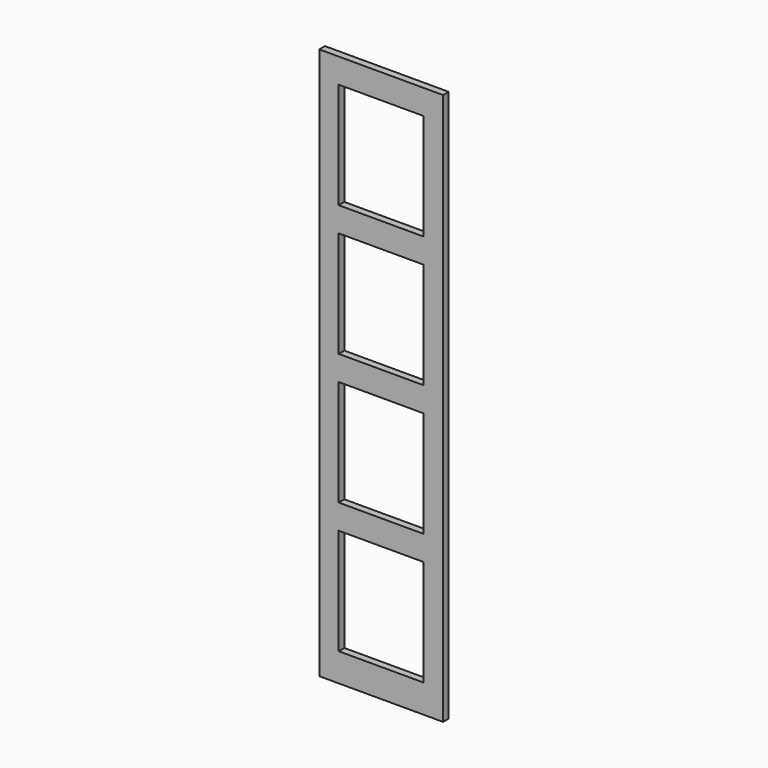
from build123d import *

# Parameters (mm, degrees)
F0_W     = 444.5
F0_H     = 1981.2
F0_W_2   = 304.8
F0_H_2   = 381
F1_DEPTH = 25.4


with BuildPart() as f1:
    # F0 (on Front) → F1 (new body)
    with BuildSketch(Plane.XZ):
        with Locations((0, 25.400003)):
            Rectangle(F0_W, F0_H)
        with Locations((0, -673.099997)):
            Rectangle(F0_W_2, F0_H_2, mode=Mode.SUBTRACT)
        with Locations((0, -203.199997)):
            Rectangle(F0_W_2, F0_H_2, mode=Mode.SUBTRACT)
        with Locations((0, 266.700003)):
            Rectangle(F0_W_2, F0_H_2, mode=Mode.SUBTRACT)
        with Locations((0, 736.600003)):
            Rectangle(F0_W_2, F0_H_2, mode=Mode.SUBTRACT)
    extrude(amount=F1_DEPTH)


solid = f1.part
